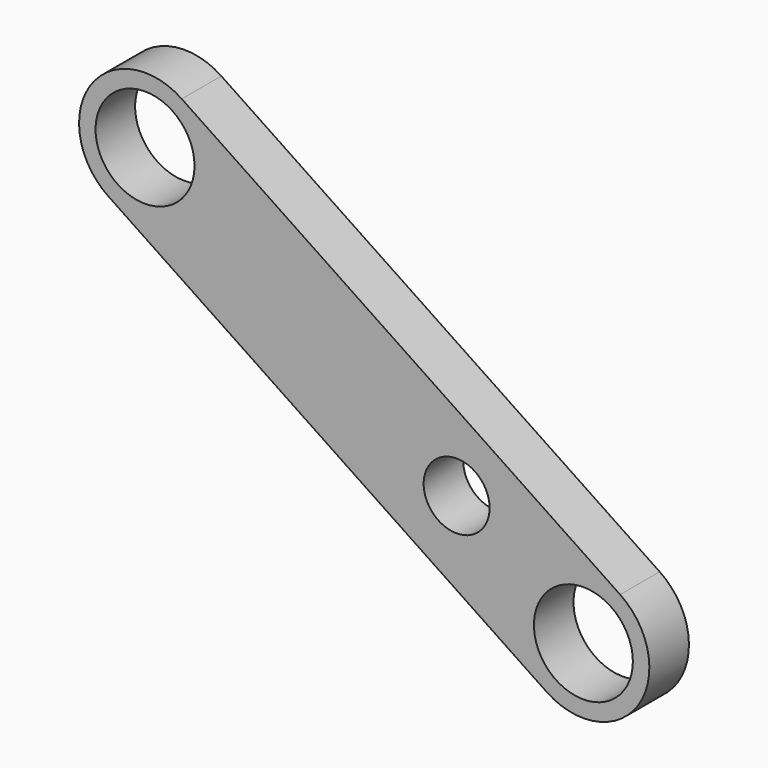
from build123d import *

# Parameters (mm, degrees)
F0_R     = 19.05
F1_DEPTH = 9.525
F2_R     = 12.7
F3_DEPTH = 38.1


with BuildPart() as f1:
    # F0 (on Front) → F1 (new body, symmetric)
    with BuildSketch(Plane.XZ):
        with BuildLine():
            Line((96.688229, -28.916121), (-72.105243, 84.216561))
            ThreePointArc((-72.105243, 84.216561), (-107.346012, 77.258962), (-100.388413, 42.018193))
            Line((-100.388413, 42.018193), (68.405059, -71.114489))
            ThreePointArc((68.405059, -71.114489), (103.645828, -64.15689), (96.688229, -28.916121))
        make_face()
        with Locations((82.546644, -50.015305)):
            Circle(F0_R, mode=Mode.SUBTRACT)
        with Locations((-86.246828, 63.117377)):
            Circle(F0_R, mode=Mode.SUBTRACT)
    extrude(amount=F1_DEPTH, both=True)

    # F2 (on face) → F3 (cut, symmetric)
    with BuildSketch(Plane.XZ.offset(9.525)):
        with Locations((33.736624, -15.935864)):
            Circle(F2_R)
    extrude(amount=F3_DEPTH, both=True, mode=Mode.SUBTRACT)


solid = f1.part
